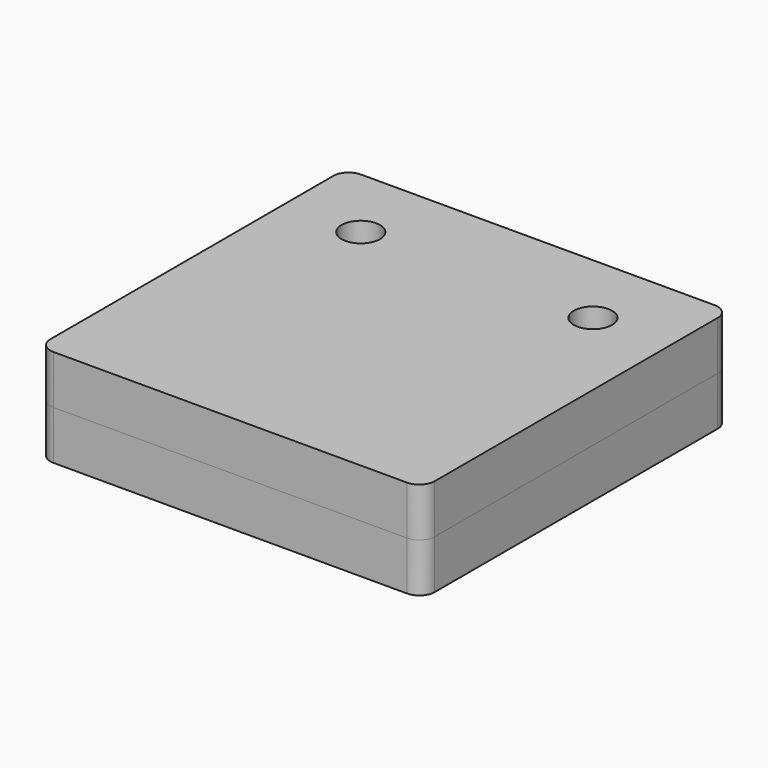
from build123d import *

# Parameters (mm, degrees)
F1_W     = 25
F1_H     = 25
F1_R     = 1.25
F2_DEPTH = 3.175
F3_R     = 1
F4_R     = 1.25
F5_DEPTH = 3.175


with BuildPart() as f2:
    # F1 (on Top) → F2 (new body)
    with BuildSketch(Plane.XY):
        Rectangle(F1_W, F1_H)
        with BuildLine():
            Line((10.05, 4.3), (10.05, -10.05))
            Line((10.05, -10.05), (-10.05, -10.05))
            Line((-10.05, -10.05), (-10.05, 4.3))
            Line((-10.05, 4.3), (-7.55, 4.3))
            ThreePointArc((-7.55, 4.3), (-5.251903, 5.251903), (-4.3, 7.55))
            Line((-4.3, 7.55), (4.3, 7.55))
            ThreePointArc((4.3, 7.55), (5.251903, 5.251903), (7.55, 4.3))
            Line((7.55, 4.3), (10.05, 4.3))
        make_face(mode=Mode.SUBTRACT)
        with Locations((-7.55, 7.55)):
            Circle(F1_R, mode=Mode.SUBTRACT)
        with Locations((7.55, 7.55)):
            Circle(F1_R, mode=Mode.SUBTRACT)
    extrude(amount=F2_DEPTH)

    # F3
    f3_edges = [f2.edges().sort_by_distance(p)[0] for p in [
        (-12.5, 12.5, 1.5875),
        (12.5, 12.5, 1.5875),
        (12.5, -12.5, 1.5875),
        (-12.5, -12.5, 1.5875),
        (-10.05, -10.05, 1.5875),
        (10.05, -10.05, 1.5875),
        (-10.05, 4.3, 1.5875),
        (-4.3, 7.55, 1.5875),
        (4.3, 7.55, 1.5875),
        (10.05, 4.3, 1.5875),
    ]]
    fillet(f3_edges, radius=F3_R)


with BuildPart() as f5:
    # F4 (on face) → F5 (new body)
    with BuildSketch(Plane.XY.offset(3.175)):
        with BuildLine():
            ThreePointArc((12.5, 11.5), (12.207107, 12.207107), (11.5, 12.5))
            Line((11.5, 12.5), (-11.5, 12.5))
            ThreePointArc((-11.5, 12.5), (-12.207107, 12.207107), (-12.5, 11.5))
            Line((-12.5, 11.5), (-12.5, -11.5))
            ThreePointArc((-12.5, -11.5), (-12.207107, -12.207107), (-11.5, -12.5))
            Line((-11.5, -12.5), (11.5, -12.5))
            ThreePointArc((11.5, -12.5), (12.207107, -12.207107), (12.5, -11.5))
            Line((12.5, -11.5), (12.5, 11.5))
        make_face()
        with Locations((-7.55, 7.55)):
            Circle(F4_R, mode=Mode.SUBTRACT)
        with Locations((7.55, 7.55)):
            Circle(F4_R, mode=Mode.SUBTRACT)
    extrude(amount=F5_DEPTH)


solid = Compound([f2.part, f5.part])
